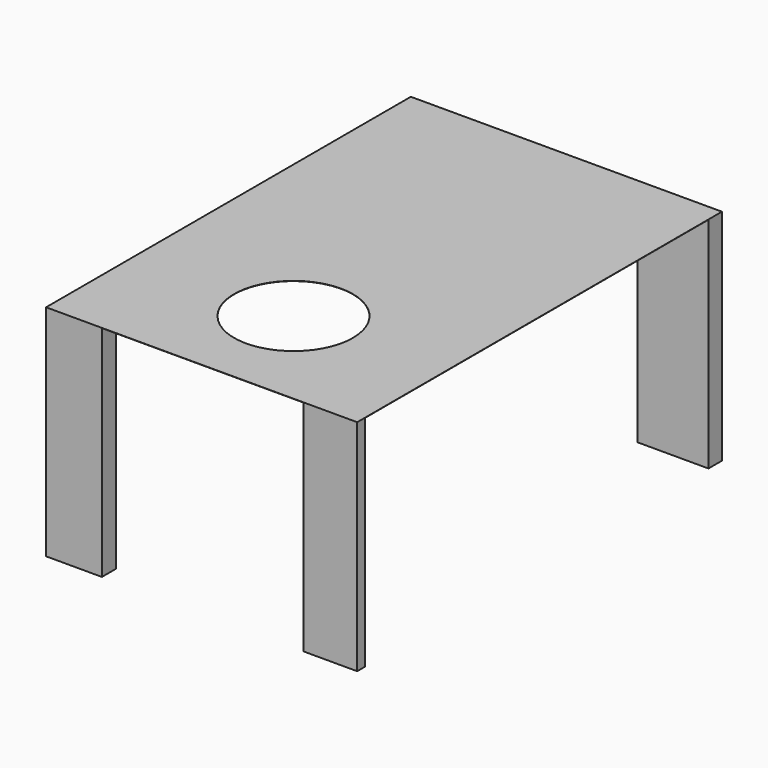
from build123d import *

# Parameters (mm, degrees)
F0_W     = 36.041372
F0_H     = 52.817661
F0_R     = 6.880185
F1_DEPTH = 0.0254
F2_W     = 6.246955
F2_H     = 1.12941
F2_W_2   = 6.467774
F2_H_2   = 2.031927
F2_W_3   = 8.2353
F2_H_3   = 1.951657
F2_W_4   = 5.340438
F2_H_4   = 2.847552
F3_DEPTH = 25.4


with BuildPart() as f1:
    # F0 (on Top) → F1 (new body)
    with BuildSketch(Plane.XY):
        with Locations((18.020686, 26.408831)):
            Rectangle(F0_W, F0_H)
        with Locations((18.543148, 12.65093)):
            Circle(F0_R, mode=Mode.SUBTRACT)
    extrude(amount=F1_DEPTH)

    # F2 (on face) → F3 (join)
    with BuildSketch(Plane.XY.offset(0.0254)):
        with Locations((32.917894, 0.564705)):
            Rectangle(F2_W, F2_H)
        with Locations((3.233887, 1.015964)):
            Rectangle(F2_W_2, F2_H_2)
        with Locations((31.923722, 51.841832)):
            Rectangle(F2_W_3, F2_H_3)
        with Locations((2.670219, 51.393885)):
            Rectangle(F2_W_4, F2_H_4)
    extrude(amount=-F3_DEPTH)


solid = f1.part
